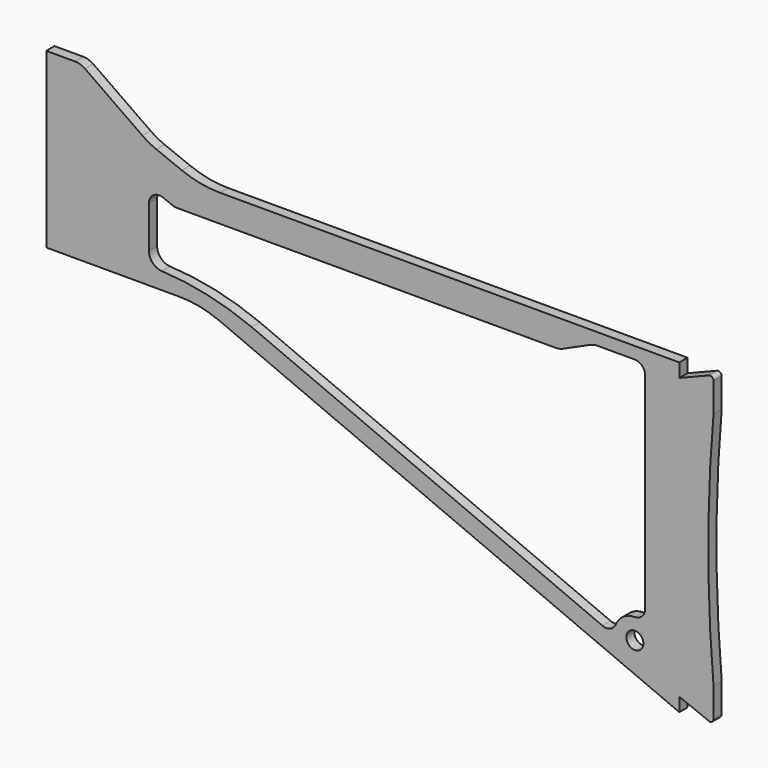
from build123d import *

# Parameters (mm, degrees)
F0_R     = 2.5
F1_DEPTH = 3


with BuildPart() as f1:
    # F0 (on Front) → F1 (new body)
    with BuildSketch(Plane.XZ):
        with BuildLine():
            Line((8.423506, 0), (0, 0))
            Line((0, 0), (0, -50.61))
            Line((0, -50.61), (38.89988, -50.61))
            ThreePointArc((38.89988, -50.61), (44.877672, -51.211599), (50.615716, -52.992267))
            Line((50.615716, -52.992267), (185, -110))
            Line((185, -110), (185, -106))
            Line((185, -106), (193.628609, -109.451444))
            ThreePointArc((193.628609, -109.451444), (194.560629, -109.351034), (195, -108.522967))
            Line((195, -108.522967), (195, -100))
            ThreePointArc((195, -100), (193.47167, -65), (195, -30))
            Line((195, -30), (195, -21.477033))
            ThreePointArc((195, -21.477033), (194.560629, -20.648966), (193.628609, -20.548556))
            Line((193.628609, -20.548556), (185, -24))
            Line((185, -24), (185, -20))
            Line((185, -20), (50.773761, -20))
            ThreePointArc((50.773761, -20), (45.104049, -19.459368), (39.638686, -17.856958))
            Line((39.638686, -17.856958), (32.150787, -14.86387))
            ThreePointArc((32.150787, -14.86387), (30.063568, -13.886554), (28.102641, -12.675606))
            Line((28.102641, -12.675606), (11.291388, -0.90424))
            ThreePointArc((11.291388, -0.90424), (9.927035, -0.231415), (8.423506, 0))
        make_face()
        with Locations((172, -95.743)):
            Circle(F0_R, mode=Mode.SUBTRACT)
        with BuildLine():
            ThreePointArc((60.01507, -51.548314), (47.165387, -47.491711), (33.81052, -45.697851))
            ThreePointArc((33.81052, -45.697851), (31.105357, -44.462965), (30, -41.702342))
            Line((30, -41.702342), (30, -29.429961))
            ThreePointArc((30, -29.429961), (31.317817, -26.945959), (34.113507, -26.644265))
            Line((34.113507, -26.644265), (36.969061, -27.785696))
            ThreePointArc((36.969061, -27.785696), (37.515597, -27.945937), (38.082568, -28))
            Line((38.082568, -28), (148.926827, -28))
            ThreePointArc((148.926827, -28), (149.976103, -27.888662), (150.97865, -27.559608))
            Line((150.97865, -27.559608), (159.02135, -23.940392))
            ThreePointArc((159.02135, -23.940392), (160.023897, -23.611338), (161.073173, -23.5))
            Line((161.073173, -23.5), (172, -23.5))
            ThreePointArc((172, -23.5), (174.12132, -24.37868), (175, -26.5))
            Line((175, -26.5), (175, -86.743))
            ThreePointArc((175, -86.743), (174.12132, -88.86432), (172, -89.743))
            ThreePointArc((172, -89.743), (168.674495, -90.748902), (166.464034, -93.429328))
            ThreePointArc((166.464034, -93.429328), (164.827898, -95.050786), (162.524467, -95.034265))
            Line((162.524467, -95.034265), (60.01507, -51.548314))
        make_face(mode=Mode.SUBTRACT)
    extrude(amount=F1_DEPTH)


solid = f1.part
